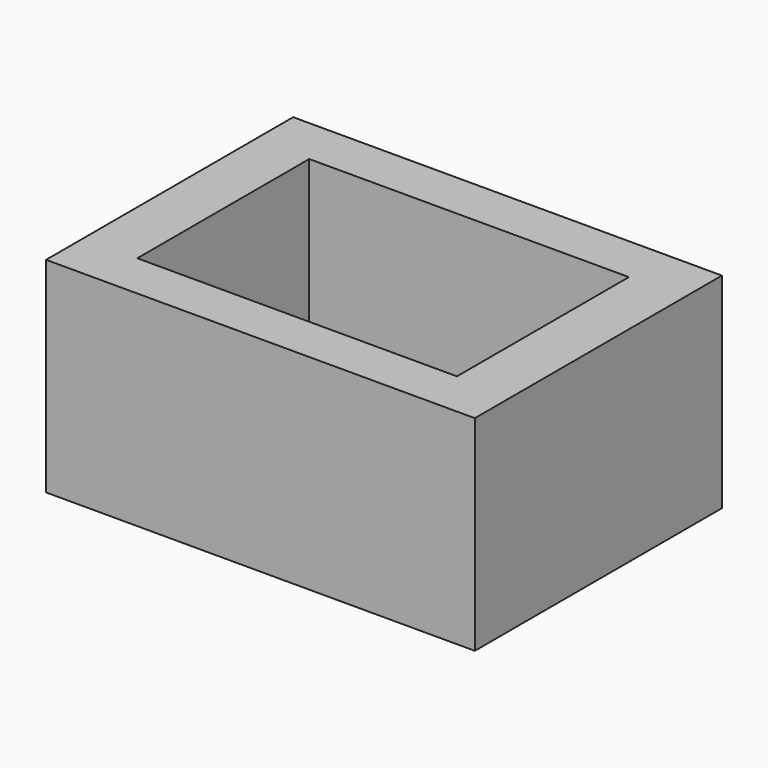
from build123d import *

# Parameters (mm, degrees)
SKETCH_W     = 20.932246
SKETCH_H     = 15.079651
PAD_DEPTH    = 10
SKETCH001_W  = 15.606913
SKETCH001_H  = 10.492484
POCKET_DEPTH = 9


with BuildPart() as part:
    # Sketch → Pad (new body)
    with BuildSketch(Plane.XY):
        with Locations((0.975433, -1.449966)):
            Rectangle(SKETCH_W, SKETCH_H)
    extrude(amount=PAD_DEPTH)

    # Sketch001 (on Face6 of Pad) → Pocket (cut)
    with BuildSketch(Plane.XY.offset(10)):
        with Locations((0.948794, -1.472244)):
            Rectangle(SKETCH001_W, SKETCH001_H)
    extrude(amount=-POCKET_DEPTH, mode=Mode.SUBTRACT)


solid = part.part
